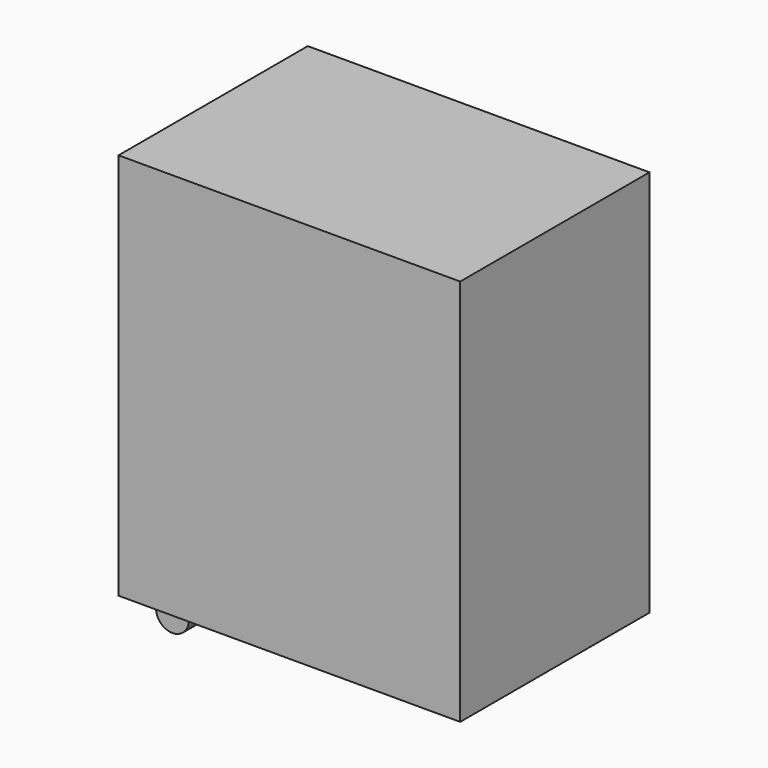
from build123d import *

# Parameters (mm, degrees)
F0_W     = 660.4
F0_H     = 749.3
F1_DEPTH = 457.2
F4_DEPTH = 38.1


with BuildPart() as f1:
    # F0 (on Front) → F1 (new body)
    with BuildSketch(Plane.XZ):
        Rectangle(F0_W, F0_H)
    extrude(amount=F1_DEPTH)

    # F3 (on offset) → F4 (join)
    with BuildSketch(Plane.XZ.offset(406.4)):
        with BuildLine():
            Line((-301.641643, -374.65), (-293.075598, -388.725433))
            ThreePointArc((-293.075598, -388.725433), (-266.7, -438.15), (-240.324402, -388.725433))
            Line((-240.324402, -388.725433), (-235.105276, -374.65))
            Line((-235.105276, -374.65), (-301.641643, -374.65))
        make_face()
    extrude(amount=-F4_DEPTH)


solid = f1.part
